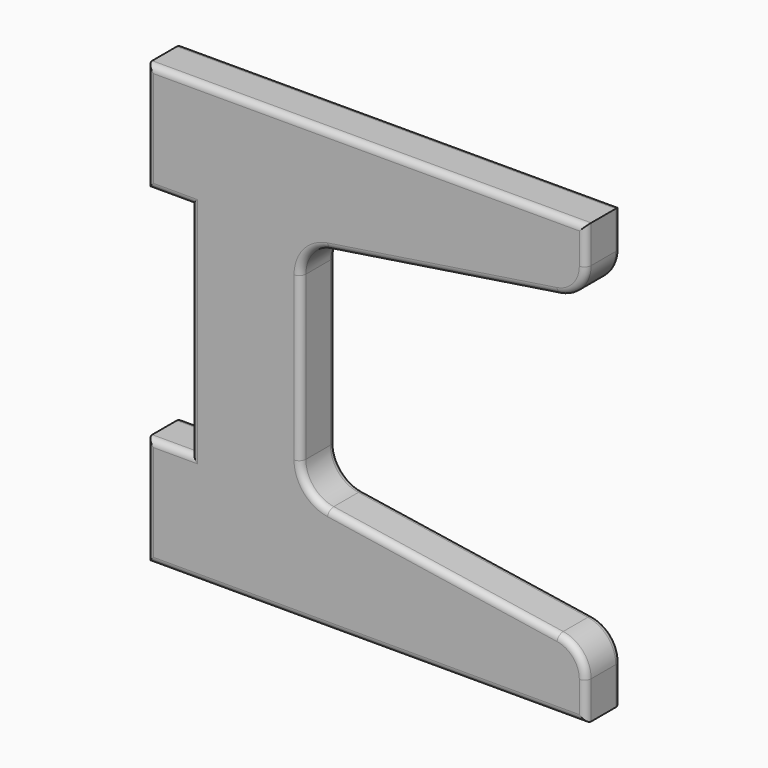
from build123d import *

# Parameters (mm, degrees)
F1_DEPTH = 20
F2_R     = 3


with BuildPart() as f1:
    # F0 (on Front) → F1 (new body)
    with BuildSketch(Plane.XZ):
        with BuildLine():
            Line((0, 50), (0, 0))
            Line((0, 0), (200, 0))
            Line((200, 0), (200, 17.131216))
            ThreePointArc((200, 17.131216), (196.384482, 26.898179), (187.280858, 31.956791))
            Line((187.280858, 31.956791), (82.719142, 48.043209))
            ThreePointArc((82.719142, 48.043209), (73.615518, 53.101821), (70, 62.868784))
            Line((70, 62.868784), (70, 137.131216))
            ThreePointArc((70, 137.131216), (73.615518, 146.898179), (82.719142, 151.956791))
            Line((82.719142, 151.956791), (187.280858, 168.043209))
            ThreePointArc((187.280858, 168.043209), (196.384482, 173.101821), (200, 182.868784))
            Line((200, 182.868784), (200, 200))
            Line((200, 200), (0, 200))
            Line((0, 200), (0, 150))
            Line((0, 150), (20, 150))
            Line((20, 150), (20, 50))
            Line((20, 50), (0, 50))
        make_face()
    extrude(amount=F1_DEPTH)

    # F2
    f2_edges = [f1.edges().sort_by_distance(p)[0] for p in [
        (196.384482, -20, 173.101821),
        (200, -20, 191.434392),
        (100, -20, 200),
        (0, -20, 175),
        (10, -20, 150),
        (20, -20, 100),
        (10, -20, 50),
        (0, -20, 25),
        (100, -20, 0),
        (200, -20, 8.565608),
        (196.384482, -20, 26.898179),
        (135, -20, 40),
        (73.615518, -20, 53.101821),
        (70, -20, 100),
        (73.615518, -20, 146.898179),
        (135, -20, 160),
        (196.384482, 0, 173.101821),
        (200, 0, 191.434392),
        (100, 0, 200),
        (0, 0, 175),
        (10, 0, 150),
        (20, 0, 100),
        (10, 0, 50),
        (0, 0, 25),
        (100, 0, 0),
        (200, 0, 8.565608),
        (196.384482, 0, 26.898179),
        (135, 0, 40),
        (73.615518, 0, 53.101821),
        (70, 0, 100),
        (73.615518, 0, 146.898179),
        (135, 0, 160),
    ]]
    fillet(f2_edges, radius=F2_R)


solid = f1.part
